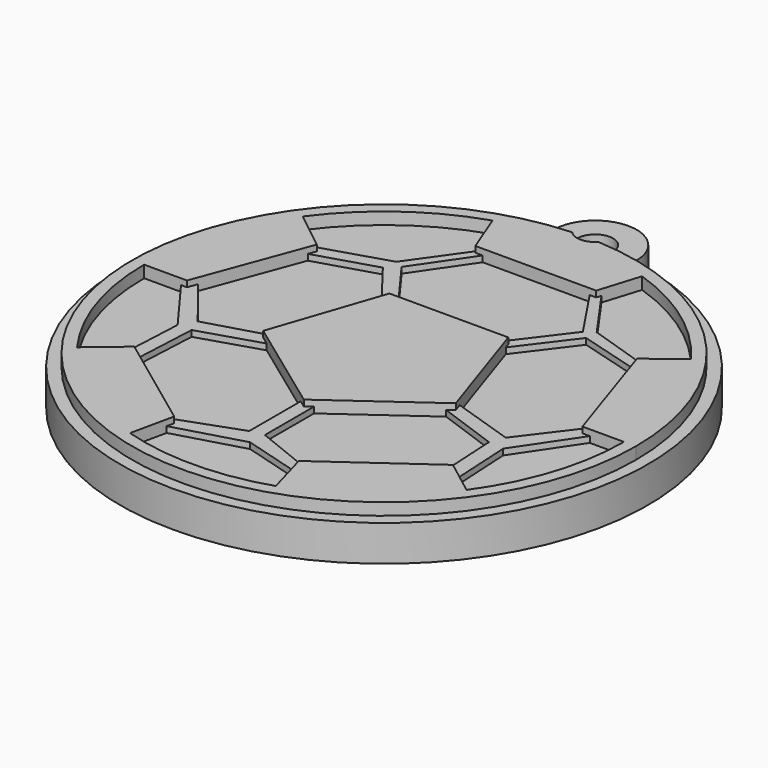
from build123d import *

# Parameters (mm, degrees)
F0_R     = 1.5
F1_DEPTH = 3
F3_DEPTH = 1
F5_DEPTH = 0.5


with BuildPart() as f1:
    # F0 (on Top) → F1 (new body)
    with BuildSketch(Plane.XY):
        with BuildLine():
            ThreePointArc((3.4500828672, 21.7277916091), (0, 25.4608047039), (-3.4500828672, 21.7277916091))
            ThreePointArc((-3.4500828672, 21.7277916091), (0, -22), (3.4500828672, 21.7277916091))
        make_face()
        with Locations((0, 22)):
            Circle(F0_R, mode=Mode.SUBTRACT)
    extrude(amount=F1_DEPTH)



with BuildPart() as f3:
    # F2 (on face) → F3 (new body)
    with BuildSketch(Plane.XY.offset(3)):
        Polygon((4.922974389, 6.8000350147), (-4.9908645451, 6.8000350147), (-8.1190178171, -2.440047916), (0, -8.3594759926), (8.0511281267, -2.5844241027), align=None)
    extrude(amount=F3_DEPTH)


with BuildPart() as f3b:
    # F2 (on face) → F3, piece 2 (new body)
    with BuildSketch(Plane.XY.offset(3)):
        with BuildLine():
            ThreePointArc((-1.0919588755, 20.9715906388), (-14.4580228944, -15.2304156901), (20.9999997169, 0))
            ThreePointArc((20.9999997169, 0), (15.2304156901, 14.4580228944), (1.0919588755, 20.9715906388))
            ThreePointArc((1.0919588755, 20.9715906388), (0, 20.5), (-1.0919588755, 20.9715906388))
        make_face()
        with BuildLine():
            ThreePointArc((-16.1295580852, -11.8252846044), (-19.0077768519, -6.2212875796), (-20, 0))
            Line((-20, 0), (-16.4255090058, 0))
            Line((-16.4255090058, 0), (-12.9916435108, 9.2311538756))
            Line((-12.9916435108, 9.2311538756), (-16.1823943196, 11.7528768429))
            ThreePointArc((-16.1823943196, 11.7528768429), (-11.7551151877, 16.1807684281), (-6.1756283357, 19.0226605568))
            Line((-6.1756283357, 19.0226605568), (-4.8075946979, 15.5265759677))
            Line((-4.8075946979, 15.5265759677), (5.26508037, 15.5265759677))
            Line((5.26508037, 15.5265759677), (6.3353531163, 18.9700632812))
            ThreePointArc((6.3353531163, 18.9700632812), (11.7732180825, 16.1676014295), (16.1095758254, 11.8524920048))
            Line((16.1095758254, 11.8524920048), (13.3346663788, 9.6890022978))
            Line((13.3346663788, 9.6890022978), (16.539607197, 0))
            Line((16.539607197, 0), (20, 0))
            ThreePointArc((20, 0), (19.0338940981, -6.1409181287), (16.2289124537, -11.6885585326))
            Line((16.2289124537, -11.6885585326), (13.3346645162, -9.4834174961))
            Line((13.3346645162, -9.4834174961), (5.150616169, -15.3209902346))
            Line((5.150616169, -15.3209902346), (6.1930771205, -19.0169870321))
            ThreePointArc((6.1930771205, -19.0169870321), (0.1603117546, -19.9993574932), (-5.8874264525, -19.1138224792))
            Line((-5.8874264525, -19.1138224792), (-5.0937519409, -15.4926832765))
            Line((-5.0937519409, -15.4926832765), (-13.2777998224, -9.4261867926))
            Line((-13.2777998224, -9.4261867926), (-16.1295580852, -11.8252846044))
        make_face(mode=Mode.SUBTRACT)
    extrude(amount=F3_DEPTH)


with BuildPart() as f1_1:
    add(f1.part)

    add(f3.part)  # F5 merges F3

    add(f3b.part)  # F5 merges F3b
    # F4 (on face) → F5 (join)
    with BuildSketch(Plane.XY.offset(3)):
        Polygon((-3.9732013829, 15.8563796431), (-4.6360646375, 16.1158889532), (-8.0390470102, 11.3176852465), (-13.9602348208, 9.480074048), (-13.2939470932, 8.5717067122), (-8.2003781572, 10.1312547922), (-5.0240522251, 6.0106148012), (-4.1660062867, 6.6720250605), (-7.3132961988, 10.9754130244), align=None)
        Polygon((5.1279528998, 16.2930767983), (4.4984105043, 15.8638432622), (7.6175061986, 11.1995087937), (4.1550239548, 6.6210199147), (4.8672661829, 6.0823867253), (8.3251015592, 10.6547309861), (13.9129273593, 9.0533420444), (14.1338557053, 9.8242410304), (8.3615100011, 11.7145888507), align=None)
        Polygon((13.0210139809, -3.5926375928), (7.2665498592, -1.7012254102), (6.9803940132, -2.7600007597), (12.5604271889, -4.763089586), (12.8751983866, -10.514815338), (14.1574915833, -10.4446400579), (13.8542868014, -4.9042641757), (17.5109170377, 0.5307878018), (16.6018719511, 1.1423811709), align=None)
        Polygon((0.5418943474, -7.1095651947), (-0.6027278141, -7.1095651947), (-0.6027278141, -13.2905244827), (-5.9576934658, -15.2252613613), (-5.6676808745, -16.2379276007), (0.4274321254, -14.4923776388), (5.8904200537, -16.0708622457), (6.1791581102, -15.3508447111), (0.5418943474, -13.0902156234), align=None)
        Polygon((-16.3739044219, 1.1117858812), (-17.4086019397, 0.6545940414), (-13.5853170573, -4.5247467198), (-13.8709158044, -10.2605167986), (-12.7163715661, -10.3180045262), (-12.4276187271, -4.5188898221), (-6.8210065365, -2.7600007597), (-7.3744487017, -1.7012254102), (-12.8848105669, -3.3157542348), align=None)
    extrude(amount=F5_DEPTH)


solid = f1_1.part
